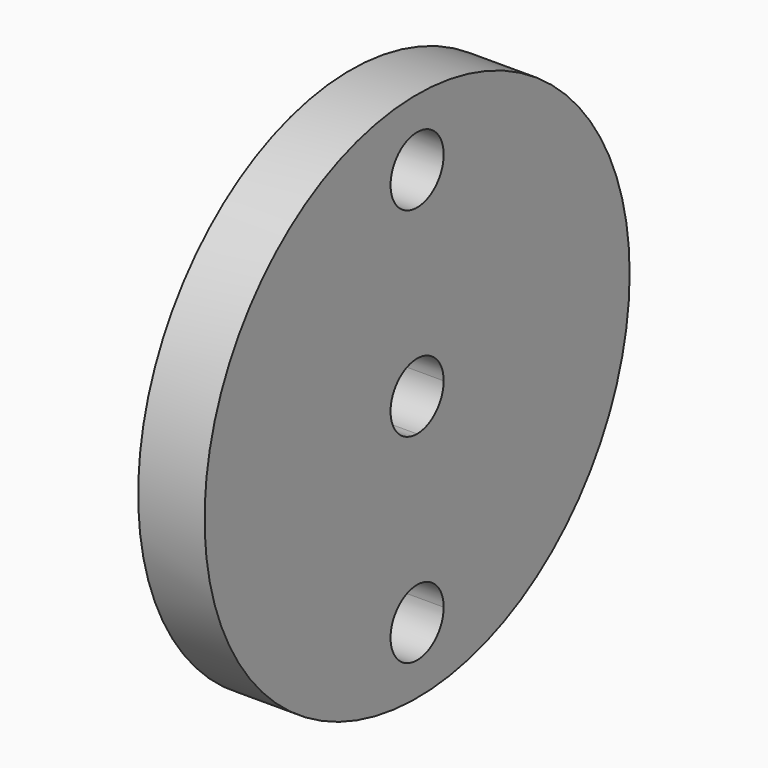
from build123d import *

# Parameters (mm, degrees)
F0_R     = 50.8
F0_R_2   = 6.35
F1_DEPTH = 12.7


with BuildPart() as f1:
    # F0 (on Right) → F1 (new body)
    with BuildSketch(Plane.YZ):
        with Locations((0, 38.1)):
            Circle(F0_R)
        with BuildLine():
            ThreePointArc((6.35, 0), (-4.490128, -4.490128), (0, 6.35))
            ThreePointArc((0, 6.35), (4.490128, 4.490128), (6.35, 0))
        make_face(mode=Mode.SUBTRACT)
        with BuildLine():
            ThreePointArc((6.35, 38.1), (4.490128, 33.609872), (0, 31.75))
            ThreePointArc((0, 31.75), (-4.490128, 42.590128), (6.35, 38.1))
        make_face(mode=Mode.SUBTRACT)
        with Locations((0, 76.2)):
            Circle(F0_R_2, mode=Mode.SUBTRACT)
    extrude(amount=F1_DEPTH)


solid = f1.part
